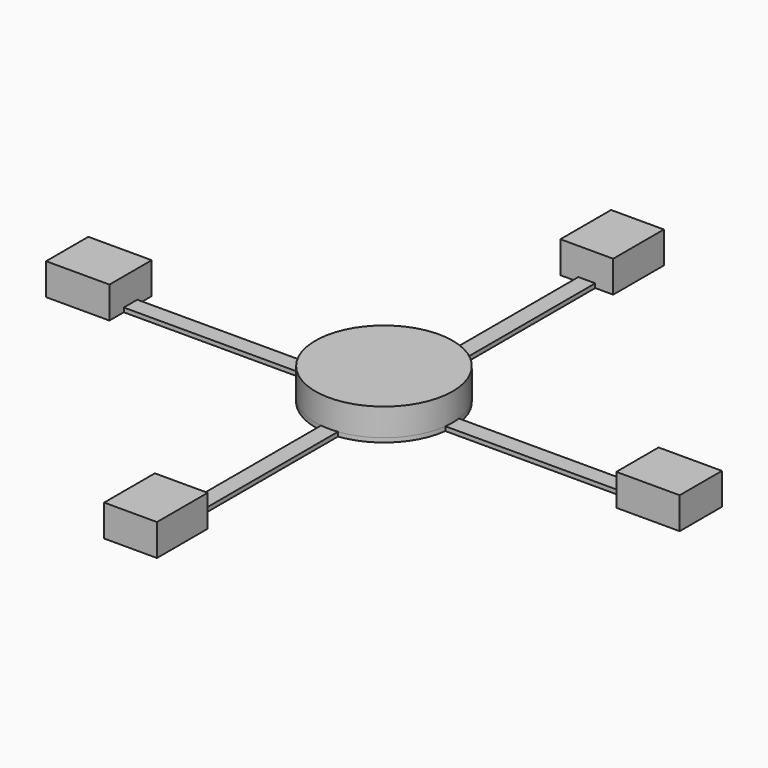
from build123d import *

# Parameters (mm, degrees)
F1_DEPTH = 2
F2_R     = 32.5
F2_W     = 30
F2_H     = 25
F2_W_2   = 25
F2_H_2   = 30
F3_DEPTH = 13


with BuildPart() as f1:
    # F0 (on Top) → F1 (new body)
    with BuildSketch(Plane.XY):
        with BuildLine():
            Line((-150, -12.5), (-120, -12.5))
            Line((-120, -12.5), (-120, -4))
            Line((-120, -4), (-32.252907, -4))
            ThreePointArc((-32.252907, -4), (-22.98097, -22.98097), (-4, -32.252907))
            Line((-4, -32.252907), (-4, -120))
            Line((-4, -120), (-12.5, -120))
            Line((-12.5, -120), (-12.5, -150))
            Line((-12.5, -150), (12.5, -150))
            Line((12.5, -150), (12.5, -120))
            Line((12.5, -120), (4, -120))
            Line((4, -120), (4, -32.252907))
            ThreePointArc((4, -32.252907), (22.98097, -22.98097), (32.252907, -4))
            Line((32.252907, -4), (120, -4))
            Line((120, -4), (120, -12.5))
            Line((120, -12.5), (150, -12.5))
            Line((150, -12.5), (150, 12.5))
            Line((150, 12.5), (120, 12.5))
            Line((120, 12.5), (120, 4))
            Line((120, 4), (32.252907, 4))
            ThreePointArc((32.252907, 4), (22.981846, 22.980095), (4.002458, 32.252602))
            Line((4.002458, 32.252602), (4.002458, 120.021963))
            Line((4.002458, 120.021963), (12.504916, 120.021963))
            Line((12.504916, 120.021963), (12.504916, 150.021963))
            Line((12.504916, 150.021963), (-12.495084, 150.021963))
            Line((-12.495084, 150.021963), (-12.495084, 120.021963))
            Line((-12.495084, 120.021963), (-3.997617, 120.021963))
            Line((-3.997617, 120.021963), (-3.997617, 32.253202))
            ThreePointArc((-3.997617, 32.253202), (-22.980121, 22.981819), (-32.252907, 4))
            Line((-32.252907, 4), (-120, 4))
            Line((-120, 4), (-120, 12.5))
            Line((-120, 12.5), (-150, 12.5))
            Line((-150, 12.5), (-150, -12.5))
        make_face()
    extrude(amount=F1_DEPTH)

    # F2 (on face) → F3 (join)
    with BuildSketch(Plane.XY.offset(2)):
        Circle(F2_R)
        with Locations((-135, 0)):
            Rectangle(F2_W, F2_H)
        with Locations((0, -135)):
            Rectangle(F2_W_2, F2_H_2)
        with Locations((135, 0)):
            Rectangle(F2_W, F2_H)
        with Locations((0.004916, 135.021963)):
            Rectangle(F2_W_2, F2_H_2)
    extrude(amount=F3_DEPTH)


solid = f1.part
